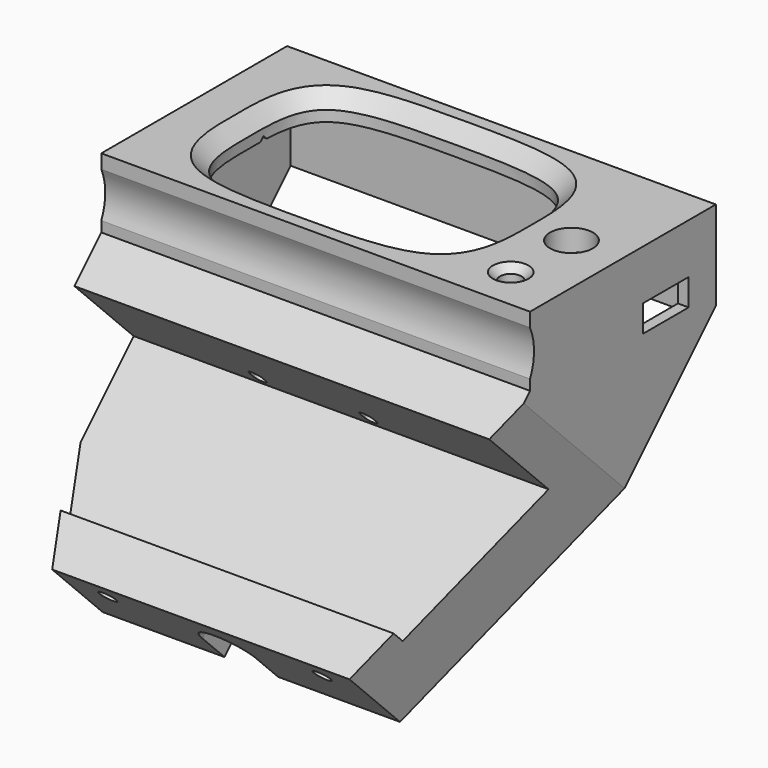
from build123d import *

# Parameters (mm, degrees)
SKETCH_W             = 120
SKETCH_H             = 65
PAD_DEPTH            = 25
SKETCH004_R          = 3
POCKET001_DEPTH      = 25.001
SKETCH001_R          = 6
POCKET_DEPTH         = 25.001
SKETCH005_W          = 114
SKETCH005_H          = 60
POCKET002_DEPTH      = 18
CHAMFER_SIZE         = 4
SKETCH006_R          = 3.5
PAD001_DEPTH         = 4.5
SKETCH007_R          = 1.4
POCKET003_DEPTH      = 8
SKETCH008_W          = 16
SKETCH008_H          = 6.5
POCKET004_DEPTH      = 9
SKETCH009_W          = 28
SKETCH009_H          = 4
POCKET005_DEPTH      = 5
PAD002_DEPTH         = 120
SKETCH015_W          = 114
SKETCH015_H          = 60
POCKET006_DEPTH      = 18
SKETCH016_W          = 16
SKETCH016_H          = 7.5
POCKET007_DEPTH      = 9
CHAMFER001_SIZE      = 2
SKETCH041_W          = 114
SKETCH041_H          = 32.987599
POCKET019_DEPTH      = 33
SKETCH031_W          = 45
SKETCH031_H          = 46.830201
POCKET020_DEPTH      = 43
POCKET021_DEPTH      = 120.001
POCKET022_DEPTH      = 62
POCKET023_DEPTH      = 5
SKETCH042_R          = 2.35
POCKET024_DEPTH      = 10
SKETCH043_R          = 15
POCKET025_DEPTH      = 120.001
POCKET026_DEPTH      = 34
POCKET026_DEPTH_BACK = 100


with BuildPart() as part:
    # Sketch → Pad (new body)
    with BuildSketch(Plane.XY):
        with Locations((7, 0)):
            Rectangle(SKETCH_W, SKETCH_H)
        with BuildLine():
            add(Edge.make_bspline(
                [(0, 25.038668), (-12.580271, 25.038668), (-37.740814, 25.116003), (-37.5, 0), (-37.740814, -25.116003), (0, -25), (37.740814, -25.116003), (37.5, 0), (37.740814, 25.116003), (12.580271, 25.038668), (0, 25.038668)],
                knots=[0, 0, 0, 0, 0.125, 0.25, 0.375, 0.5, 0.625, 0.75, 0.875, 1, 1, 1, 1], degree=3))
        make_face(mode=Mode.SUBTRACT)
    extrude(amount=PAD_DEPTH)

    # Sketch004 → Pocket001 (cut, through all)
    with BuildSketch(Plane(origin=(0, 0, 0), x_dir=(1, 0, 0), z_dir=(0, 0, -1))):
        with Locations((52, 20.5)):
            Circle(SKETCH004_R)
    extrude(amount=-POCKET001_DEPTH, mode=Mode.SUBTRACT)

    # Sketch001 (on Face5 of Pocket001) → Pocket (cut, through all)
    with BuildSketch(Plane.XY.offset(25)):
        with Locations((53, -0.5)):
            Circle(SKETCH001_R)
    extrude(amount=-POCKET_DEPTH, mode=Mode.SUBTRACT)

    # Sketch005 (on Face4 of Pocket) → Pocket002 (cut)
    with BuildSketch(Plane(origin=(0, 0, 0), x_dir=(1, 0, 0), z_dir=(0, 0, -1))):
        with Locations((7, 0)):
            Rectangle(SKETCH005_W, SKETCH005_H)
    extrude(amount=-POCKET002_DEPTH, mode=Mode.SUBTRACT)

    # Chamfer
    chamfer_edges = [part.edges().sort_by_distance(p)[0] for p in [
        (0, -25.038668, 25),
    ]]
    chamfer(chamfer_edges, length=CHAMFER_SIZE)

    # Sketch006 (on Face11 of Chamfer) → Pad001 (join)
    with BuildSketch(Plane(origin=(0, 0, 18), x_dir=(1, 0, 0), z_dir=(0, 0, -1))):
        with Locations((-45.5, 25)):
            Circle(SKETCH006_R)
        with Locations((-45.5, -25)):
            Circle(SKETCH006_R)
        with Locations((58.5, -25)):
            Circle(SKETCH006_R)
        with Locations((58.5, 25)):
            Circle(SKETCH006_R)
    extrude(amount=PAD001_DEPTH)

    # Sketch007 (on Face22 of Pad001) → Pocket003 (cut)
    with BuildSketch(Plane(origin=(0, 0, 13.5), x_dir=(1, 0, 0), z_dir=(0, 0, -1))):
        with Locations((-45.5, 25)):
            Circle(SKETCH007_R)
        with Locations((58.5, 25)):
            Circle(SKETCH007_R)
        with Locations((58.5, -25)):
            Circle(SKETCH007_R)
        with Locations((-45.5, -25)):
            Circle(SKETCH007_R)
    extrude(amount=-POCKET003_DEPTH, mode=Mode.SUBTRACT)

    # Sketch008 (on Face5 of Pocket003) → Pocket004 (cut)
    with BuildSketch(Plane.YZ.offset(67)):
        with Locations((15, 3.25)):
            Rectangle(SKETCH008_W, SKETCH008_H)
    extrude(amount=-POCKET004_DEPTH, mode=Mode.SUBTRACT)

    # Sketch009 (on Face4 of Pocket004) → Pocket005 (cut)
    with BuildSketch(Plane(origin=(-53, 0, 0), x_dir=(0, -1, 0), z_dir=(-1, 0, 0))):
        with Locations((0, 10.5)):
            Rectangle(SKETCH009_W, SKETCH009_H)
    extrude(amount=-POCKET005_DEPTH, mode=Mode.SUBTRACT)

    # Sketch010 (on Face4 of Pocket005) → Pad002 (join)
    with BuildSketch(Plane(origin=(-53, 0, 0), x_dir=(0, -1, 0), z_dir=(-1, 0, 0))):
        Polygon((-32.5, 0), (46.247475, -78.747475), (81.497475, -43.497475), (32, 6), (-32.5, 6), align=None)
    extrude(amount=-PAD002_DEPTH)

    # Sketch015 → Pocket006 (cut)
    with BuildSketch(Plane(origin=(0, 0, 13.5), x_dir=(1, 0, 0), z_dir=(0, 0, -1))):
        with Locations((7, 0)):
            Rectangle(SKETCH015_W, SKETCH015_H)
    extrude(amount=POCKET006_DEPTH, mode=Mode.SUBTRACT)

    # Sketch016 (on Face5 of Pocket006) → Pocket007 (cut)
    with BuildSketch(Plane.YZ.offset(67)):
        with Locations((15, 7.25)):
            Rectangle(SKETCH016_W, SKETCH016_H)
    extrude(amount=-POCKET007_DEPTH, mode=Mode.SUBTRACT)

    # Chamfer001
    chamfer001_edges = [part.edges().sort_by_distance(p)[0] for p in [
        (49, -20.5, 25),
    ]]
    chamfer(chamfer001_edges, length=CHAMFER001_SIZE)

    # Sketch041 (on Face23 of Pocket006) → Pocket019 (cut)
    with BuildSketch(Plane(origin=(0, 16.25, -16.25), x_dir=(1, 0, 0), z_dir=(0, 0.707107, -0.707107))):
        with Locations((7, -0.493799)):
            Rectangle(SKETCH041_W, SKETCH041_H)
    extrude(amount=-POCKET019_DEPTH, mode=Mode.SUBTRACT)

    # Sketch031 (on Face32 of Pocket019) → Pocket020 (cut)
    with BuildSketch(Plane(origin=(0, 16.25, -16.25), x_dir=(1, 0, 0), z_dir=(0, 0.707107, -0.707107))):
        with Locations((0, 4.969675)):
            Rectangle(SKETCH031_W, SKETCH031_H)
    extrude(amount=-POCKET020_DEPTH, mode=Mode.SUBTRACT)

    # Sketch033 → Pocket021 (cut, through all)
    with BuildSketch(Plane(origin=(-53, 0, 0), x_dir=(0, -1, 0), z_dir=(-1, 0, 0))):
        Polygon((63.925144, -61.069805), (54.732756, -51.877417), (51.550775, -55.059397), (21.145184, -24.653806), (72.968978, 27.169988), (105.178442, -41.805866), align=None)
    extrude(amount=-POCKET021_DEPTH, mode=Mode.SUBTRACT)

    # Sketch034 → Pocket022 (cut)
    with BuildSketch(Plane(origin=(0, -62.497475, -62.497475), x_dir=(1, 0, 0), z_dir=(0, -0.707107, -0.707107))):
        with BuildLine():
            ThreePointArc((7.5, -12), (0, -4.5), (-7.5, -12))
            Line((-7.5, -33.243636), (-7.5, -12))
            Line((-3.299766, -37.44387), (-7.5, -33.243636))
            Line((3.299766, -37.44387), (-3.299766, -37.44387))
            Line((7.5, -33.243636), (3.299766, -37.44387))
            Line((7.5, -33.243636), (7.5, -12))
        make_face()
    extrude(amount=-POCKET022_DEPTH, mode=Mode.SUBTRACT)

    # Sketch036 (on Face43 of Pocket022) → Pocket023 (cut)
    with BuildSketch(Plane(origin=(0, -22.899495, -22.899495), x_dir=(1, 0, 0), z_dir=(0, -0.707107, -0.707107))):
        with BuildLine():
            ThreePointArc((17.25, 3.5), (15.5, 5.25), (13.75, 3.5))
            Line((13.75, 3.5), (13.75, 1.5))
            ThreePointArc((13.75, 1.5), (15.5, -0.25), (17.25, 1.5))
            Line((17.25, 3.5), (17.25, 1.5))
        make_face()
        with BuildLine():
            ThreePointArc((-13.75, 3.5), (-15.5, 5.25), (-17.25, 3.5))
            Line((-17.25, 3.5), (-17.25, 1.5))
            ThreePointArc((-17.25, 1.5), (-15.5, -0.25), (-13.75, 1.5))
            Line((-13.75, 3.5), (-13.75, 1.5))
        make_face()
        with BuildLine():
            ThreePointArc((17.25, -27.5), (15.5, -25.75), (13.75, -27.5))
            Line((13.75, -27.5), (13.75, -29.5))
            ThreePointArc((13.75, -29.5), (15.5, -31.25), (17.25, -29.5))
            Line((17.25, -27.5), (17.25, -29.5))
        make_face()
    extrude(amount=-POCKET023_DEPTH, mode=Mode.SUBTRACT)

    # Sketch042 (on Face56 of Pocket023) → Pocket024 (cut)
    with BuildSketch(Plane(origin=(0, -62.497475, -62.497475), x_dir=(1, 0, 0), z_dir=(0, -0.707107, -0.707107))):
        with Locations((-30, -5)):
            Circle(SKETCH042_R)
        with Locations((30, -5)):
            Circle(SKETCH042_R)
    extrude(amount=-POCKET024_DEPTH, mode=Mode.SUBTRACT)

    # Sketch043 (on Face5 of Pocket024) → Pocket025 (cut, through all)
    with BuildSketch(Plane(origin=(-53, 0, 0), x_dir=(0, -1, 0), z_dir=(-1, 0, 0))):
        with Locations((46.107452, 14.746502)):
            Circle(SKETCH043_R)
    extrude(amount=-POCKET025_DEPTH, mode=Mode.SUBTRACT)

    # Sketch044 (on Face73 of Pocket025) → Pocket026 (cut, two sides)
    with BuildSketch(Plane(origin=(0, 1.754311, -1.754311), x_dir=(1, 0, 0), z_dir=(0, -0.707107, 0.707107))) as pocket026_sk:
        Polygon((75.525253, 0), (35, -105.598799), (-35, -105.598799), (-75.525253, 0), (-103.488983, -26.513087), (-83.230568, -139.492681), (94.225327, -139.492681), align=None)
    extrude(amount=-POCKET026_DEPTH, mode=Mode.SUBTRACT)
    extrude(pocket026_sk.sketch, amount=POCKET026_DEPTH_BACK, mode=Mode.SUBTRACT)


solid = part.part
